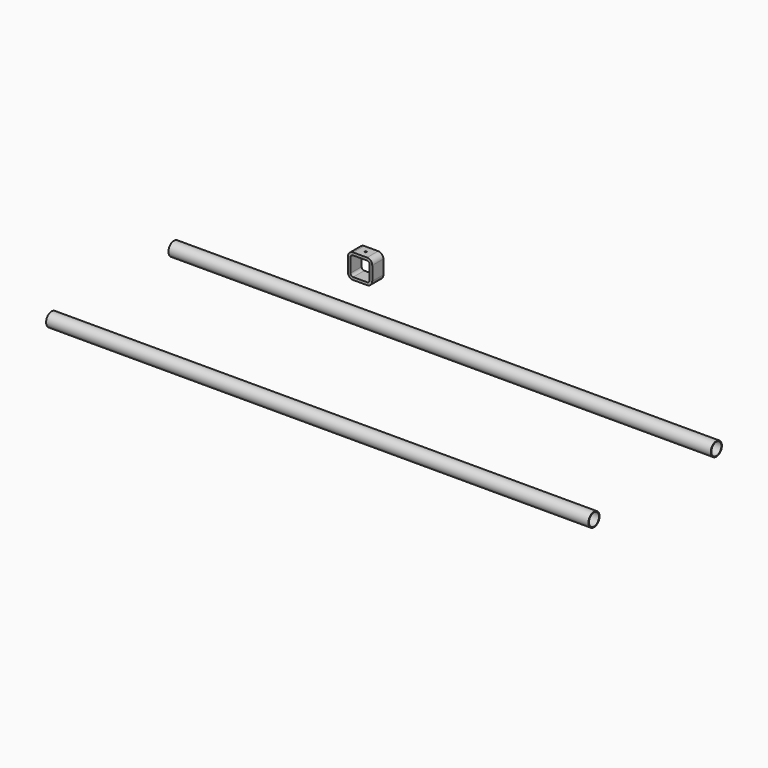
from build123d import *

# Parameters (mm, degrees)
F0_R      = 25.4
F1_DEPTH  = 1981.2
F2_D      = 45.72
F4_D      = 6.35
F4_DEPTH  = 50.8
F4_TIP    = 1.9077324654
F5_R      = 25.4
F6_DEPTH  = 1981.2
F7_D      = 45.72
F9_DEPTH  = 50.8
F11_D     = 6.35
F11_DEPTH = 12.7
F11_TIP   = 1.9077324654


with BuildPart() as f1:
    # F0 (on Right) → F1 (new body)
    with BuildSketch(Plane.YZ):
        with Locations((-279.4, 0)):
            Circle(F0_R)
    extrude(amount=-F1_DEPTH)

    # F2 (through all)
    with Locations(Plane.YZ):
        with Locations((-279.4, 0)):
            Hole(F2_D / 2)

    # F4 (one way)
    with BuildSketch(Plane.XY):
        with Locations((-1854.2, -279.4)):
            Circle(F4_D / 2)
    extrude(amount=-F4_DEPTH, mode=Mode.SUBTRACT)
    with Locations(Plane.XY):
        with Locations((-1854.2, -279.4)):
            with Locations((0, 0, -(F4_DEPTH + F4_TIP / 2))):  # 118° drill point
                Cone(0, F4_D / 2, F4_TIP, mode=Mode.SUBTRACT)


with BuildPart() as f6:
    # F5 (on face) → F6 (new body)
    with BuildSketch(Plane.YZ):
        with Locations((279.4, 0)):
            Circle(F5_R)
    extrude(amount=-F6_DEPTH)

    # F7 (through all)
    with Locations(Plane.YZ):
        with Locations((279.4, 0)):
            Hole(F7_D / 2)


with BuildPart() as f9:
    # F8 (on Front) → F9 (new body)
    with BuildSketch(Plane.XZ):
        with BuildLine():
            Line((-1011.9042306555, 420.4070654154), (-1062.7042306555, 420.4070654154))
            ThreePointArc((-1062.7042306555, 420.4070654154), (-1076.1746148371, 414.827449597), (-1081.7542306555, 401.3570654154))
            Line((-1081.7542306555, 401.3570654154), (-1081.7542306555, 350.5570654154))
            ThreePointArc((-1081.7542306555, 350.5570654154), (-1076.1746148371, 337.0866812338), (-1062.7042306555, 331.5070654154))
            Line((-1062.7042306555, 331.5070654154), (-1011.9042306555, 331.5070654154))
            ThreePointArc((-1011.9042306555, 331.5070654154), (-998.4338464739, 337.0866812338), (-992.8542306555, 350.5570654154))
            Line((-992.8542306555, 350.5570654154), (-992.8542306555, 401.3570654154))
            ThreePointArc((-992.8542306555, 401.3570654154), (-998.4338464739, 414.827449597), (-1011.9042306555, 420.4070654154))
        make_face()
        with BuildLine():
            ThreePointArc((-1072.2292306555, 401.3570654154), (-1069.4394227463, 408.0922575062), (-1062.7042306555, 410.8820654154))
            Line((-1062.7042306555, 410.8820654154), (-1011.9042306555, 410.8820654154))
            ThreePointArc((-1011.9042306555, 410.8820654154), (-1005.1690385647, 408.0922575062), (-1002.3792306555, 401.3570654154))
            Line((-1002.3792306555, 401.3570654154), (-1002.3792306555, 350.5570654154))
            ThreePointArc((-1002.3792306555, 350.5570654154), (-1005.1690385647, 343.8218733246), (-1011.9042306555, 341.0320654154))
            Line((-1011.9042306555, 341.0320654154), (-1062.7042306555, 341.0320654154))
            ThreePointArc((-1062.7042306555, 341.0320654154), (-1069.4394227463, 343.8218733246), (-1072.2292306555, 350.5570654154))
            Line((-1072.2292306555, 350.5570654154), (-1072.2292306555, 401.3570654154))
        make_face(mode=Mode.SUBTRACT)
    extrude(amount=F9_DEPTH)

    # F11
    with Locations(Plane.XY.offset(420.4070654154)):
        with Locations((-1037.3042306555, -25.4)):
            Hole(F11_D / 2, depth=F11_DEPTH)
            with Locations((0, 0, -(F11_DEPTH + F11_TIP / 2))):  # 118° drill point
                Cone(0, F11_D / 2, F11_TIP, mode=Mode.SUBTRACT)


solid = Compound([f1.part, f6.part, f9.part])
